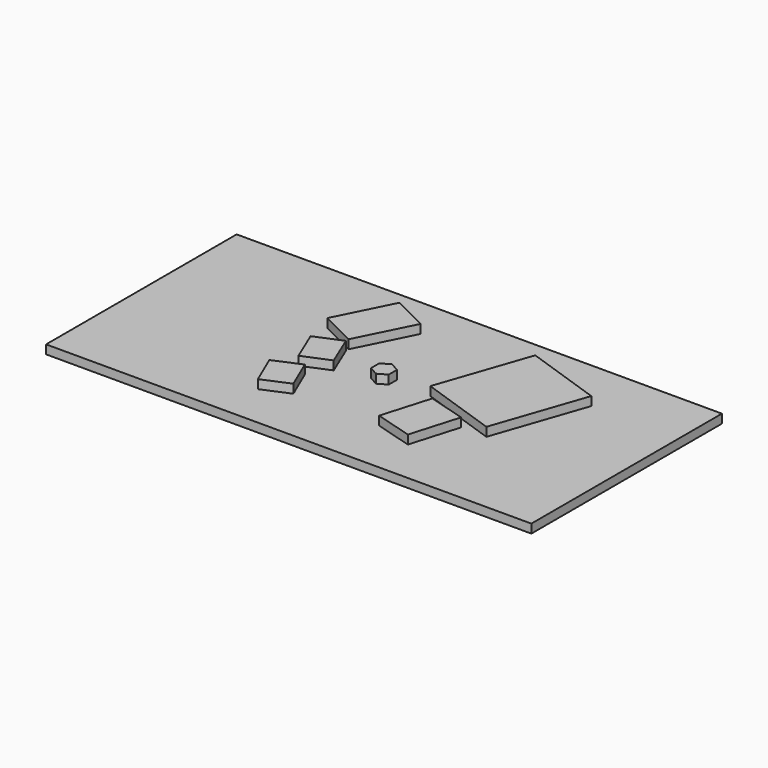
from build123d import *

# Parameters (mm, degrees)
F0_W     = 1397
F0_H     = 685.8
F1_DEPTH = 25.4
F3_DEPTH = 25.4


with BuildPart() as f1:
    # F0 (on Top) → F1 (new body)
    with BuildSketch(Plane.XY):
        Rectangle(F0_W, F0_H)
    extrude(amount=F1_DEPTH)


with BuildPart() as f3:
    # F2 (on face) → F3 (new body)
    with BuildSketch(Plane.XY.offset(25.4)):
        Polygon((25.4, -14.664697), (25.4, 14.664697), (0, 29.329394), (-25.4, 14.664697), (-25.4, -14.664697), (0, -29.329394), align=None)
        Polygon((-190.5, -215.9), (-114.3, -183.242857), (-152.4, -94.342857), (-228.6, -127), align=None)
        Polygon((-190.5, -69.85), (-114.3, -38.1), (-152.4, 53.34), (-228.6, 21.59), align=None)
        Polygon((-254, 114.3), (-152.4, 63.5), (-72.885423, 222.529155), (-174.485423, 273.329155), align=None)
        Polygon((133.35, 0), (355.6, -76.2), (446.216216, 188.097297), (223.966216, 264.297297), align=None)
        Polygon((133.35, -184.15), (241.3, -215.9), (282.498271, -75.825878), (174.548271, -44.075878), align=None)
    extrude(amount=F3_DEPTH)


solid = Compound([f1.part, f3.part])
